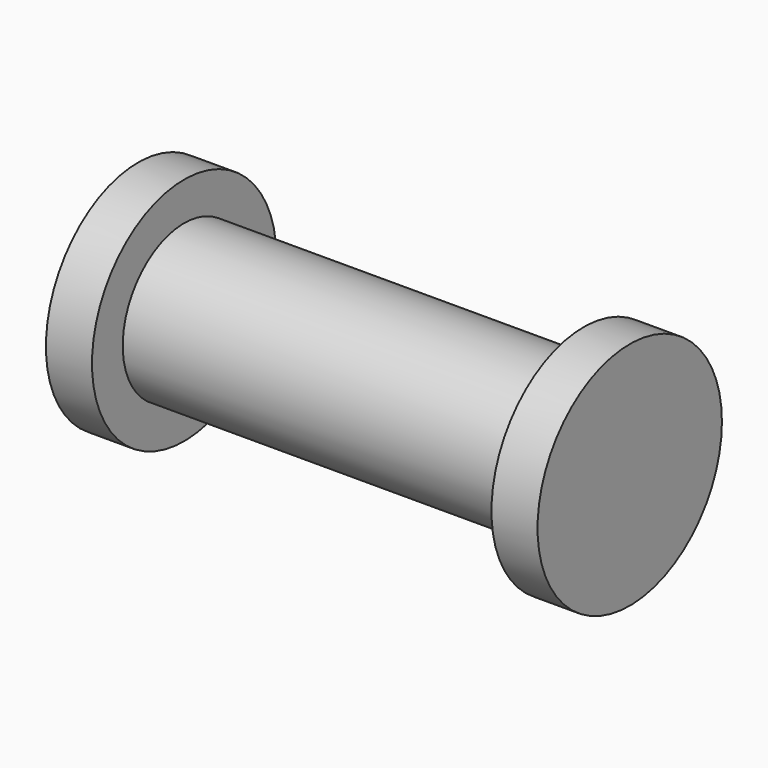
from build123d import *

# Parameters (mm, degrees)
F0_W = 26
F0_H = 5


with BuildPart() as f1:
    # F0 (on Top) → F1 (revolve)
    with BuildSketch(Plane.XY):
        Polygon((-13, 0), (-13, 5), (-13, 7.5), (-16, 7.5), (-16, 0), align=None)
        with Locations((0, 2.5)):
            Rectangle(F0_W, F0_H)
        Polygon((13, 7.5), (13, 5), (13, 0), (16, 0), (16, 7.5), align=None)
    revolve(axis=Axis((0, 0, 0), (1, 0, 0)))


solid = f1.part
